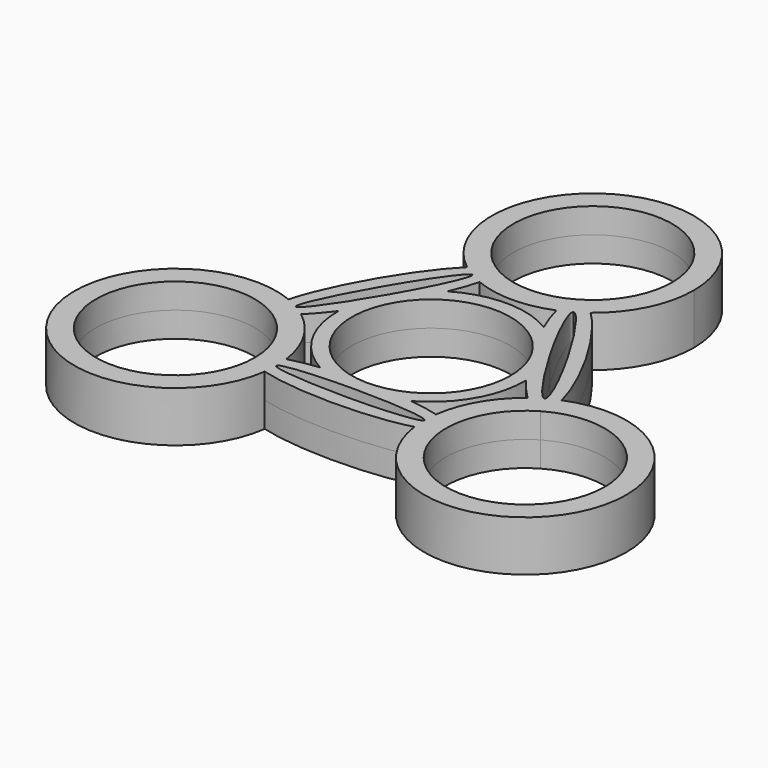
from build123d import *

# Parameters (mm, degrees)
F0_R     = 11
F1_DEPTH = 3.5


with BuildPart() as f1:
    # F0 (on Top) → F1 (new body, symmetric)
    with BuildSketch(Plane.XY):
        with BuildLine():
            ThreePointArc((-5.321451731, 15.0507856812), (0, 14), (5.321451731, 15.0507856812))
            ThreePointArc((5.321451731, 15.0507856812), (6.1745154459, 15.4351538406), (6.999999976, 15.8756443332))
            ThreePointArc((6.999999976, 15.8756443332), (7.7942182227, 16.3702896727), (8.5536226936, 16.9168804565))
            ThreePointArc((8.5536226936, 16.9168804565), (12.5648461533, 21.8254845417), (14, 28))
            ThreePointArc((14, 28), (-6.1745154583, 40.5648461533), (-8.5536226936, 16.9168804565))
            ThreePointArc((-8.5536226936, 16.9168804565), (-7.7942182225, 16.3702896726), (-6.9999999755, 15.8756443329))
            ThreePointArc((-6.9999999755, 15.8756443329), (-6.1745154456, 15.4351538405), (-5.321451731, 15.0507856812))
        make_face()
        with BuildLine():
            ThreePointArc((5.5, 18.4737205584), (-9.5262794416, 33.5), (11, 28))
            ThreePointArc((11, 28), (9.5262794416, 22.5), (5.5, 18.4737205584))
        make_face(mode=Mode.SUBTRACT)
        with BuildLine():
            add(Edge.make_bspline(
                [(-6.9999999755, 15.8756443329), (-7.8660252465, 16.3756445907), (-12.9903809831, 7.5000001277), (-18.1147367196, -1.3756443353), (-17.2487113064, -1.8756443468)],
                knots=[6.2831852789, 6.2831852789, 6.2831852789, 7.8539816196, 7.8539816196, 9.4247779603, 9.4247779603, 9.4247779603], degree=2, weights=[1, 0.7071067763, 1, 0.7071067763, 1]))
            ThreePointArc((-6.9999999755, 15.8756443329), (-7.7942182225, 16.3702896726), (-8.5536226936, 16.9168804565))
            add(Edge.make_bspline(
                [(-8.5536226936, 16.9168804565), (-16.3011149136, 9.4114530834), (-18.927259575, -1.0507856812)],
                knots=[0.671334689, 0.671334689, 0.671334689, 2.4702579646, 2.4702579646, 2.4702579646], degree=2, weights=[1, 0.6220315918, 1]))
            ThreePointArc((-18.927259575, -1.0507856812), (-18.0741958479, -1.4351538466), (-17.2487113064, -1.8756443468))
        make_face()
        with BuildLine():
            ThreePointArc((-11.2583302492, 6.5), (-9.2670109952, 9.1171545569), (-6.6826660781, 11.1508732433))
            add(Edge.make_bspline(
                [(-6.6826660781, 11.1508732433), (-5.7471537999, 13.3548407649), (-5.321451731, 15.0507856812)],
                knots=[5.2092812159, 5.2092812159, 5.2092812159, 5.6118506182, 5.6118506182, 5.6118506182], degree=2, weights=[1, 0.9798105384, 1]))
            ThreePointArc((-5.321451731, 15.0507856812), (-6.1745154456, 15.4351538405), (-6.9999999755, 15.8756443329))
            add(Edge.make_bspline(
                [(-11.2583302492, 6.5), (-6.133974741, 15.3756440962), (-6.9999999755, 15.8756443329)],
                knots=[4.7123889804, 4.7123889804, 4.7123889804, 6.2831852789, 6.2831852789, 6.2831852789], degree=2, weights=[1, 0.7071067912, 1]))
        make_face()
        with BuildLine():
            ThreePointArc((-12.9982725421, 0.211921967), (-12.5291929541, 3.4668896605), (-11.2583302492, 6.5))
            add(Edge.make_bspline(
                [(-17.2487113064, -1.8756443468), (-16.3826859048, -2.3756443515), (-11.2583302492, 6.5)],
                knots=[3.1415926531, 3.1415926531, 3.1415926531, 4.7123889804, 4.7123889804, 4.7123889804], degree=2, weights=[1, 0.707106781, 1]))
            ThreePointArc((-17.2487113064, -1.8756443468), (-16.4544930719, -2.3702896803), (-15.6950886123, -2.9168804565))
            add(Edge.make_bspline(
                [(-15.6950886123, -2.9168804565), (-14.4392082659, -1.7002391922), (-12.9982725421, 0.211921967)],
                knots=[3.8129273426, 3.8129273426, 3.8129273426, 4.2154967449, 4.2154967449, 4.2154967449], degree=2, weights=[1, 0.9798105384, 1]))
        make_face()
        with BuildLine():
            add(Edge.make_bspline(
                [(5.321451731, 15.0507856812), (5.7471537999, 13.3548407649), (6.6826660781, 11.1508732433)],
                knots=[3.8129273426, 3.8129273426, 3.8129273426, 4.2154967449, 4.2154967449, 4.2154967449], degree=2, weights=[1, 0.9798105384, 1]))
            ThreePointArc((6.6826660781, 11.1508732433), (0, 13), (-6.6826660781, 11.1508732433))
            ThreePointArc((-6.6826660781, 11.1508732433), (-9.2670109952, 9.1171545569), (-11.2583302492, 6.5))
            ThreePointArc((-11.2583302492, 6.5), (-12.5291929541, 3.4668896605), (-12.9982725421, 0.211921967))
            ThreePointArc((-12.9982725421, 0.211921967), (-11.2583302492, -6.5), (-6.3156064641, -11.3627952103))
            ThreePointArc((-6.3156064641, -11.3627952103), (-3.2621819589, -12.5840442175), (0, -13))
            ThreePointArc((0, -13), (3.2621819589, -12.5840442175), (6.3156064641, -11.3627952103))
            ThreePointArc((6.3156064641, -11.3627952103), (11.2583302492, -6.5), (12.9982725421, 0.211921967))
            add(Edge.make_bspline(
                [(12.9982725421, 0.211921967), (14.4392082659, -1.7002391922), (15.6950886123, -2.9168804565)],
                knots=[5.2092812159, 5.2092812159, 5.2092812159, 5.6118506182, 5.6118506182, 5.6118506182], degree=2, weights=[1, 0.9798105384, 1]))
            ThreePointArc((15.6950886123, -2.9168804565), (16.4544930717, -2.3702896804), (17.248711306, -1.875644347))
            add(Edge.make_bspline(
                [(11.2583302492, 6.5), (16.3826859022, -2.375644347), (17.248711306, -1.875644347)],
                knots=[4.7123889804, 4.7123889804, 4.7123889804, 6.2831853072, 6.2831853072, 6.2831853072], degree=2, weights=[1, 0.7071067812, 1]))
            add(Edge.make_bspline(
                [(6.999999976, 15.8756443332), (6.1339747381, 15.3756441013), (11.2583302492, 6.5)],
                knots=[3.1415926813, 3.1415926813, 3.1415926813, 4.7123889804, 4.7123889804, 4.7123889804], degree=2, weights=[1, 0.707106791, 1]))
            ThreePointArc((6.999999976, 15.8756443332), (6.1745154459, 15.4351538406), (5.321451731, 15.0507856812))
        make_face()
        with BuildLine():
            ThreePointArc((9.5262794416, 5.5), (10.6251840892, 2.8470094961), (11, 0))
            ThreePointArc((11, 0), (-10.6251840892, -2.8470094961), (9.5262794416, 5.5))
        make_face(mode=Mode.SUBTRACT)
        with BuildLine():
            ThreePointArc((8.5536226936, 16.9168804565), (7.7942182227, 16.3702896727), (6.999999976, 15.8756443332))
            add(Edge.make_bspline(
                [(17.248711306, -1.875644347), (18.1147367217, -1.3756443401), (12.9903809858, 7.5000001228), (7.8660252499, 16.3756445858), (6.999999976, 15.8756443332)],
                knots=[0, 0, 0, 1.5707963406, 1.5707963406, 3.1415926813, 3.1415926813, 3.1415926813], degree=2, weights=[1, 0.7071067763, 1, 0.7071067763, 1]))
            ThreePointArc((17.248711306, -1.875644347), (18.0741958477, -1.4351538467), (18.927259575, -1.0507856812))
            add(Edge.make_bspline(
                [(18.927259575, -1.0507856812), (16.3011149136, 9.4114530834), (8.5536226936, 16.9168804565)],
                knots=[0.671334689, 0.671334689, 0.671334689, 2.4702579646, 2.4702579646, 2.4702579646], degree=2, weights=[1, 0.6220315918, 1]))
        make_face()
        with BuildLine():
            ThreePointArc((18.927259575, -1.0507856812), (18.0741958477, -1.4351538467), (17.248711306, -1.875644347))
            ThreePointArc((17.248711306, -1.875644347), (16.4544930717, -2.3702896804), (15.6950886123, -2.9168804565))
            ThreePointArc((15.6950886123, -2.9168804565), (12.124355653, -7), (10.3736368813, -12.1339052246))
            ThreePointArc((10.3736368813, -12.1339052246), (10.2799776134, -13.0648641676), (10.248711306, -14.0000000026))
            ThreePointArc((10.248711306, -14.0000000026), (10.2799776135, -14.935135835), (10.3736368813, -15.8660947754))
            ThreePointArc((10.3736368813, -15.8660947754), (25.1838471397, -27.9687336925), (38.248711306, -14))
            ThreePointArc((38.248711306, -14), (32.0429295402, -2.3702896804), (18.927259575, -1.0507856812))
        make_face()
        with BuildLine():
            ThreePointArc((35.248711306, -14), (18.748711306, -23.5262794416), (18.748711306, -4.4737205584))
            ThreePointArc((18.748711306, -4.4737205584), (29.748711306, -4.4737205584), (35.248711306, -14))
        make_face(mode=Mode.SUBTRACT)
        with BuildLine():
            ThreePointArc((-10.248711306, -14), (-10.2799776134, -14.9351358337), (-10.3736368813, -15.8660947754))
            add(Edge.make_bspline(
                [(-10.3736368813, -15.8660947754), (0, -18.8229061669), (10.3736368813, -15.8660947754)],
                knots=[0.671334689, 0.671334689, 0.671334689, 2.4702579646, 2.4702579646, 2.4702579646], degree=2, weights=[1, 0.6220315918, 1]))
            ThreePointArc((10.3736368813, -15.8660947754), (10.2799776135, -14.935135835), (10.248711306, -14.0000000026))
            add(Edge.make_bspline(
                [(-10.248711306, -14), (-10.248711306, -14.9999999987), (-1.35e-08, -15), (10.2487112789, -15.0000000013), (10.248711306, -14.0000000026)],
                knots=[0, 0, 0, 1.5707963255, 1.5707963255, 3.141592651, 3.141592651, 3.141592651], degree=2, weights=[1, 0.7071067817, 1, 0.7071067817, 1]))
        make_face()
        with BuildLine():
            ThreePointArc((6.3156064641, -11.3627952103), (3.2621819589, -12.5840442175), (0, -13))
            add(Edge.make_bspline(
                [(10.248711306, -14.0000000026), (10.248711333, -13), (0, -13)],
                knots=[3.141592651, 3.141592651, 3.141592651, 4.7123889804, 4.7123889804, 4.7123889804], degree=2, weights=[1, 0.7071067803, 1]))
            ThreePointArc((10.248711306, -14.0000000026), (10.2799776134, -13.0648641676), (10.3736368813, -12.1339052246))
            add(Edge.make_bspline(
                [(10.3736368813, -12.1339052246), (8.6920544659, -11.6546015727), (6.3156064641, -11.3627952103)],
                knots=[3.8129273426, 3.8129273426, 3.8129273426, 4.2154967449, 4.2154967449, 4.2154967449], degree=2, weights=[1, 0.9798105384, 1]))
        make_face()
        with BuildLine():
            ThreePointArc((0, -13), (-3.2621819589, -12.5840442175), (-6.3156064641, -11.3627952103))
            add(Edge.make_bspline(
                [(-6.3156064641, -11.3627952103), (-8.6920544659, -11.6546015727), (-10.3736368813, -12.1339052246)],
                knots=[5.2092812159, 5.2092812159, 5.2092812159, 5.6118506182, 5.6118506182, 5.6118506182], degree=2, weights=[1, 0.9798105384, 1]))
            ThreePointArc((-10.3736368813, -12.1339052246), (-10.2799776134, -13.0648641663), (-10.248711306, -14))
            add(Edge.make_bspline(
                [(0, -13), (-10.248711306, -13), (-10.248711306, -14)],
                knots=[4.7123889804, 4.7123889804, 4.7123889804, 6.2831853072, 6.2831853072, 6.2831853072], degree=2, weights=[1, 0.7071067812, 1]))
        make_face()
        with BuildLine():
            ThreePointArc((-15.6950886123, -2.9168804565), (-16.4544930719, -2.3702896803), (-17.2487113064, -1.8756443468))
            ThreePointArc((-17.2487113064, -1.8756443468), (-18.0741958479, -1.4351538466), (-18.927259575, -1.0507856812))
            ThreePointArc((-18.927259575, -1.0507856812), (-36.3730669589, -21), (-10.3736368813, -15.8660947754))
            ThreePointArc((-10.3736368813, -15.8660947754), (-10.2799776134, -14.9351358337), (-10.248711306, -14))
            ThreePointArc((-10.248711306, -14), (-10.2799776134, -13.0648641663), (-10.3736368813, -12.1339052246))
            ThreePointArc((-10.3736368813, -12.1339052246), (-12.124355653, -7), (-15.6950886123, -2.9168804565))
        make_face()
        with Locations((-24.248711306, -14)):
            Circle(F0_R, mode=Mode.SUBTRACT)
    extrude(amount=F1_DEPTH, both=True)


solid = f1.part
